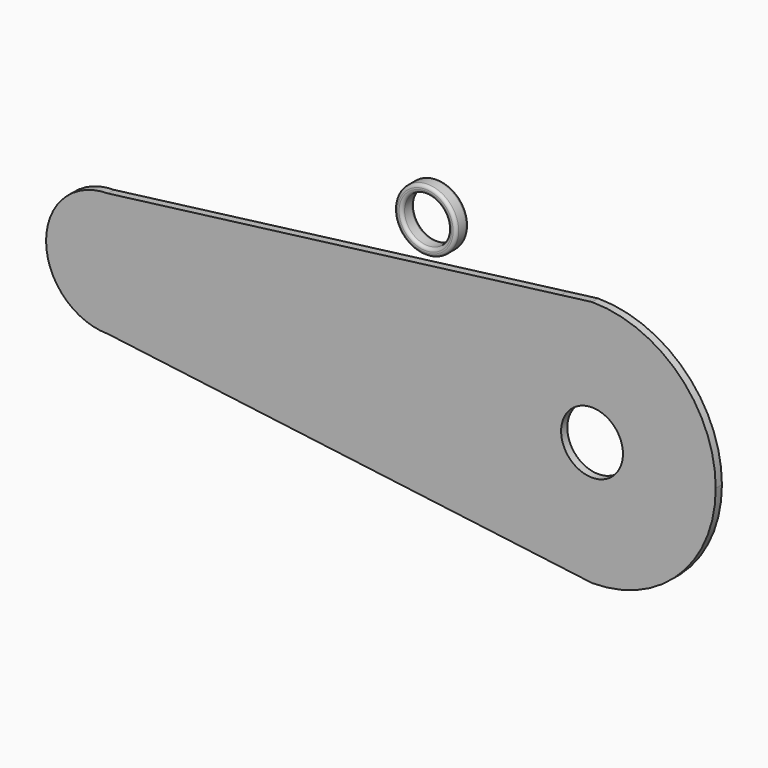
from build123d import *

# Parameters (mm, degrees)
F0_R     = 12.7
F1_DEPTH = 3.175
F2_R     = 12.7
F2_R_2   = 9.525
F3_DEPTH = 6.35
F4_R     = 1.27


with BuildPart() as f1:
    # F0 (on Front) → F1 (new body)
    with BuildSketch(Plane.XZ):
        with BuildLine():
            ThreePointArc((0, -50.8), (35.9210244843, -35.9210244843), (50.8, 0))
            ThreePointArc((50.8, 0), (35.9210244843, 35.9210244843), (0, 50.8))
            Line((0, 50.8), (-12.7725829918, 49.1680905031))
            ThreePointArc((-12.7725829918, 49.1680905031), (-50.8, 0), (-12.7725829918, -49.1680905031))
            Line((-12.7725829918, -49.1680905031), (0, -50.8))
        make_face()
        Circle(F0_R, mode=Mode.SUBTRACT)
        with BuildLine():
            ThreePointArc((-12.7725829918, -49.1680905031), (-50.8, 0), (-12.7725829918, 49.1680905031))
            Line((-12.7725829918, 49.1680905031), (-198.8, 25.4))
            ThreePointArc((-198.8, 25.4), (-180.8394877579, 17.9605122421), (-173.4, 0))
            ThreePointArc((-173.4, 0), (-180.8394877579, -17.9605122421), (-198.8, -25.4))
            Line((-198.8, -25.4), (-12.7725829918, -49.1680905031))
        make_face()
        with BuildLine():
            ThreePointArc((-173.4, 0), (-180.8394877579, 17.9605122421), (-198.8, 25.4))
            ThreePointArc((-198.8, 25.4), (-224.2, 0), (-198.8, -25.4))
            ThreePointArc((-198.8, -25.4), (-180.8394877579, -17.9605122421), (-173.4, 0))
        make_face()
    extrude(amount=F1_DEPTH)


with BuildPart() as f3:
    # F2 (on Front) → F3 (new body)
    with BuildSketch(Plane.XZ):
        with Locations((-65.9247860312, 60.0141361356)):
            Circle(F2_R)
        with Locations((-65.9247860312, 60.0141361356)):
            Circle(F2_R_2, mode=Mode.SUBTRACT)
    extrude(amount=F3_DEPTH)

    # F4
    f4_edges = [f3.edges().sort_by_distance(p)[0] for p in [
        (-78.624786, -6.35, 60.014136),
        (-78.624786, 0, 60.014136),
        (-75.449786, -6.35, 60.014136),
        (-75.449786, 0, 60.014136),
    ]]
    fillet(f4_edges, radius=F4_R)


solid = Compound([f1.part, f3.part])
